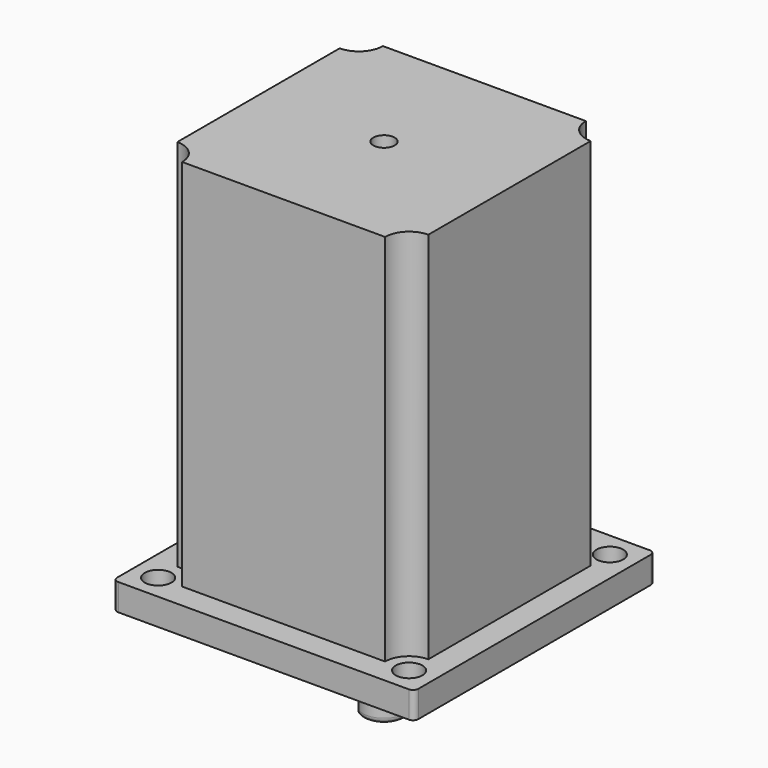
from build123d import *

# Parameters (mm, degrees)
SKETCH_W      = 56.4
SKETCH_H      = 56.4
SKETCH_R      = 2.5
SKETCH_R_2    = 2
PAD_DEPTH     = 5
SKETCH001_R   = 2
PAD001_DEPTH  = 70
SKETCH002_R   = 19.2
SKETCH002_R_2 = 5
PAD002_DEPTH  = 2
SKETCH005_R   = 4
PAD003_DEPTH  = 19
POCKET_DEPTH  = 15
FILLET_R      = 1
FILLET001_R   = 1


with BuildPart() as part:
    # Sketch → Pad (new body)
    with BuildSketch(Plane.XY):
        Rectangle(SKETCH_W, SKETCH_H)
        with Locations((-23.5, 23.5)):
            Circle(SKETCH_R, mode=Mode.SUBTRACT)
        with Locations((23.5, 23.5)):
            Circle(SKETCH_R, mode=Mode.SUBTRACT)
        with Locations((-23.5, -23.5)):
            Circle(SKETCH_R, mode=Mode.SUBTRACT)
        with Locations((23.5, -23.5)):
            Circle(SKETCH_R, mode=Mode.SUBTRACT)
        Circle(SKETCH_R_2, mode=Mode.SUBTRACT)
    extrude(amount=PAD_DEPTH)

    # Sketch001 (on Face11 of Pad) → Pad001 (join)
    with BuildSketch(Plane.XY.offset(5)):
        with BuildLine():
            ThreePointArc((-19, -23.5), (-20.318019, -20.318019), (-23.5, -19))
            Line((-23.5, -19), (-23.5, 19))
            ThreePointArc((-23.5, 19), (-20.318019, 20.318019), (-19, 23.5))
            Line((-19, 23.5), (19, 23.5))
            ThreePointArc((19, 23.5), (20.318019, 20.318019), (23.5, 19))
            Line((23.5, -19), (23.5, 19))
            ThreePointArc((23.5, -19), (20.318019, -20.318019), (19, -23.5))
            Line((19, -23.5), (-19, -23.5))
        make_face()
        Circle(SKETCH001_R, mode=Mode.SUBTRACT)
    extrude(amount=PAD001_DEPTH)

    # Sketch002 (on Face4 of Pad001) → Pad002 (join)
    with BuildSketch(Plane(origin=(0, 0, 0), x_dir=(1, 0, 0), z_dir=(0, 0, -1))):
        Circle(SKETCH002_R)
        Circle(SKETCH002_R_2, mode=Mode.SUBTRACT)
    extrude(amount=PAD002_DEPTH)

    # Sketch005 (on Face24 of Pad002) → Pad003 (join)
    with BuildSketch(Plane(origin=(0, 0, 0), x_dir=(1, 0, 0), z_dir=(0, 0, -1))):
        Circle(SKETCH005_R)
    extrude(amount=PAD003_DEPTH)

    # Sketch004 → Pocket (cut)
    with BuildSketch(Plane(origin=(0, 0, -19), x_dir=(1, 0, 0), z_dir=(0, 0, -1))):
        with BuildLine():
            ThreePointArc((-2, 3.464102), (-4, 0), (-2, -3.464102))
            Line((-2, 3.464102), (-2, -3.464102))
        make_face()
    extrude(amount=-POCKET_DEPTH, mode=Mode.SUBTRACT)

    # Fillet
    fillet_edges = [part.edges().sort_by_distance(p)[0] for p in [
        (-28.2, 28.2, 2.5),
        (-28.2, -28.2, 2.5),
        (28.2, 28.2, 2.5),
        (28.2, -28.2, 2.5),
    ]]
    fillet(fillet_edges, radius=FILLET_R)

    # Fillet001
    fillet001_edges = [part.edges().sort_by_distance(p)[0] for p in [
        (2, 3.464102, -19),
    ]]
    fillet(fillet001_edges, radius=FILLET001_R)


solid = part.part
